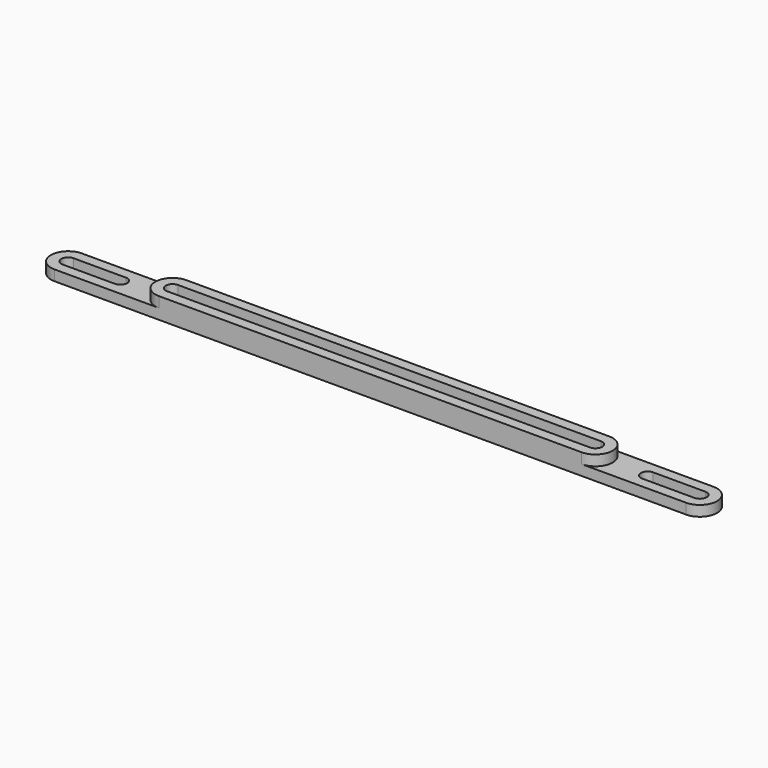
from build123d import *

# Parameters (mm, degrees)
F1_DEPTH = 2.54
F3_DEPTH = 2.54


with BuildPart() as f1:
    # F0 (on Top) → F1 (new body)
    with BuildSketch(Plane.XY):
        with BuildLine():
            Line((76.835, 4.191), (-76.835, 4.191))
            ThreePointArc((-76.835, 4.191), (-81.026, 0), (-76.835, -4.191))
            Line((-76.835, -4.191), (76.835, -4.191))
            ThreePointArc((76.835, -4.191), (81.026, 0), (76.835, 4.191))
        make_face()
        with BuildLine():
            ThreePointArc((-76.835, -1.651), (-78.486, 0), (-76.835, 1.651))
            Line((-76.835, 1.651), (-64.135, 1.651))
            ThreePointArc((-64.135, 1.651), (-62.484, 0), (-64.135, -1.651))
            Line((-64.135, -1.651), (-76.835, -1.651))
        make_face(mode=Mode.SUBTRACT)
        with BuildLine():
            Line((51.435, -1.651), (-51.435, -1.651))
            ThreePointArc((-51.435, -1.651), (-53.086, 0), (-51.435, 1.651))
            Line((-51.435, 1.651), (51.435, 1.651))
            ThreePointArc((51.435, 1.651), (53.086, 0), (51.435, -1.651))
        make_face(mode=Mode.SUBTRACT)
        with BuildLine():
            ThreePointArc((76.835, 1.651), (78.486, 0), (76.835, -1.651))
            Line((76.835, -1.651), (64.135, -1.651))
            ThreePointArc((64.135, -1.651), (62.484, 0), (64.135, 1.651))
            Line((64.135, 1.651), (76.835, 1.651))
        make_face(mode=Mode.SUBTRACT)
    extrude(amount=F1_DEPTH)

    # F2 (on face) → F3 (join)
    with BuildSketch(Plane.XY.offset(2.54)):
        with BuildLine():
            Line((51.435, 4.191), (-51.435, 4.191))
            ThreePointArc((-51.435, 4.191), (-55.626, 0), (-51.435, -4.191))
            Line((-51.435, -4.191), (51.435, -4.191))
            ThreePointArc((51.435, -4.191), (55.626, 0), (51.435, 4.191))
        make_face()
        with BuildLine():
            ThreePointArc((-51.435, -1.651), (-53.086, 0), (-51.435, 1.651))
            Line((-51.435, 1.651), (51.435, 1.651))
            ThreePointArc((51.435, 1.651), (53.086, 0), (51.435, -1.651))
            Line((51.435, -1.651), (-51.435, -1.651))
        make_face(mode=Mode.SUBTRACT)
    extrude(amount=F3_DEPTH)


solid = f1.part
